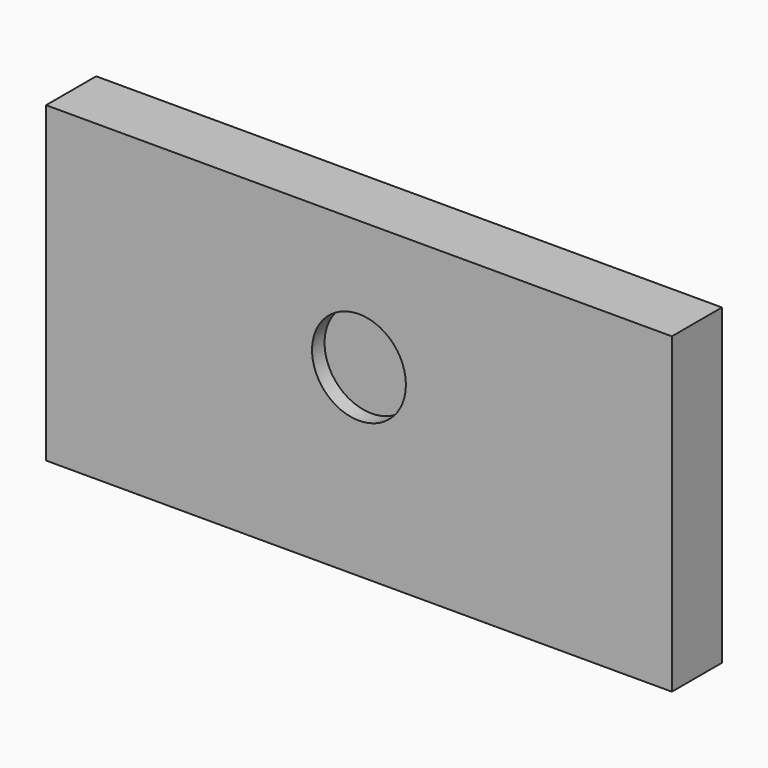
from build123d import *

# Parameters (mm, degrees)
F0_W     = 508
F0_H     = 254
F1_DEPTH = 50.8
F2_R     = 38.1
F3_DEPTH = 12.7
F4_R     = 25.4
F5_DEPTH = 12.7
F6_R     = 50.631334
F7_DEPTH = 25.4


with BuildPart() as f1:
    # F0 (on Front) → F1 (new body)
    with BuildSketch(Plane.XZ):
        Rectangle(F0_W, F0_H)
    extrude(amount=F1_DEPTH)

    # F2 (on face) → F3 (cut)
    with BuildSketch(Plane.XZ.offset(50.8)):
        with Locations((0, 22.220068)):
            Circle(F2_R)
    extrude(amount=-F3_DEPTH, mode=Mode.SUBTRACT)

    # F4 (on face) → F5 (join)
    with BuildSketch(Plane.XZ.offset(50.8)):
        with Locations((-48.272954, -19.034895)):
            Circle(F4_R)
    extrude(amount=-F5_DEPTH)

    # F6 (on face) → F7 (join)
    with BuildSketch(Plane.XZ.offset(50.8)):
        with Locations((-68.167724, -34.581438)):
            Circle(F6_R)
    extrude(amount=-F7_DEPTH)


solid = f1.part
